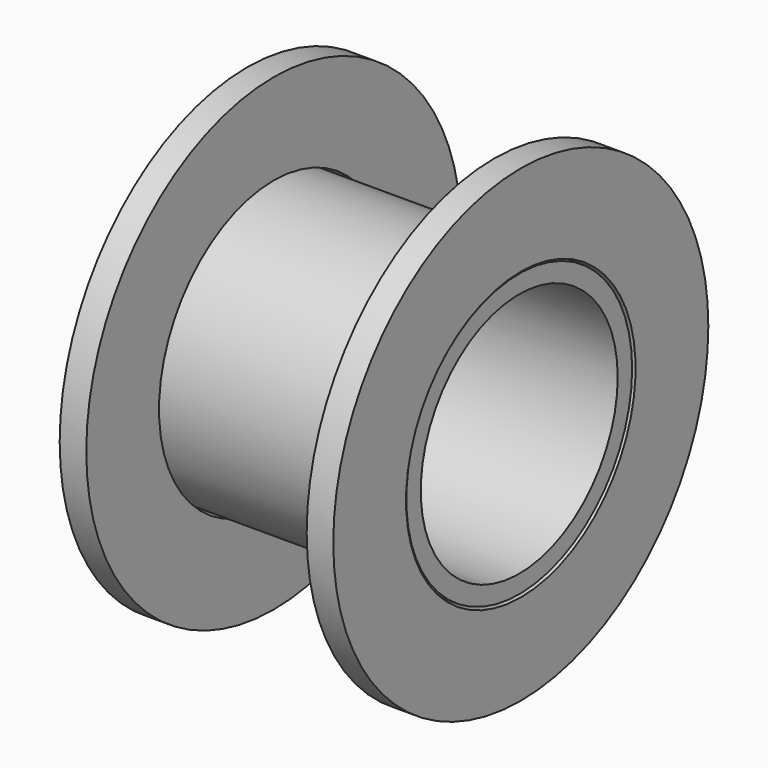
from build123d import *

# Parameters (mm, degrees)
F0_R     = 26.093678
F0_R_2   = 22.756677
F1_DEPTH = 25
F2_W     = 4.915642
F2_H     = 16.816669


with BuildPart() as f1:
    # F0 (on Right) → F1 (new body, symmetric)
    with BuildSketch(Plane.YZ):
        Circle(F0_R)
        Circle(F0_R_2, mode=Mode.SUBTRACT)
    extrude(amount=F1_DEPTH, both=True)


with BuildPart() as f4:
    # F2 (on Front) → F4 (revolve)
    with BuildSketch(Plane.XZ):
        with Locations((-22.831862, 34.926929)):
            Rectangle(F2_W, F2_H)
        with Locations((22.831862, 34.926929)):
            Rectangle(F2_W, F2_H)
    revolve(axis=Axis((0.06468, 0, 0), (1, 0, 0)))


solid = Compound([f1.part, f4.part])
